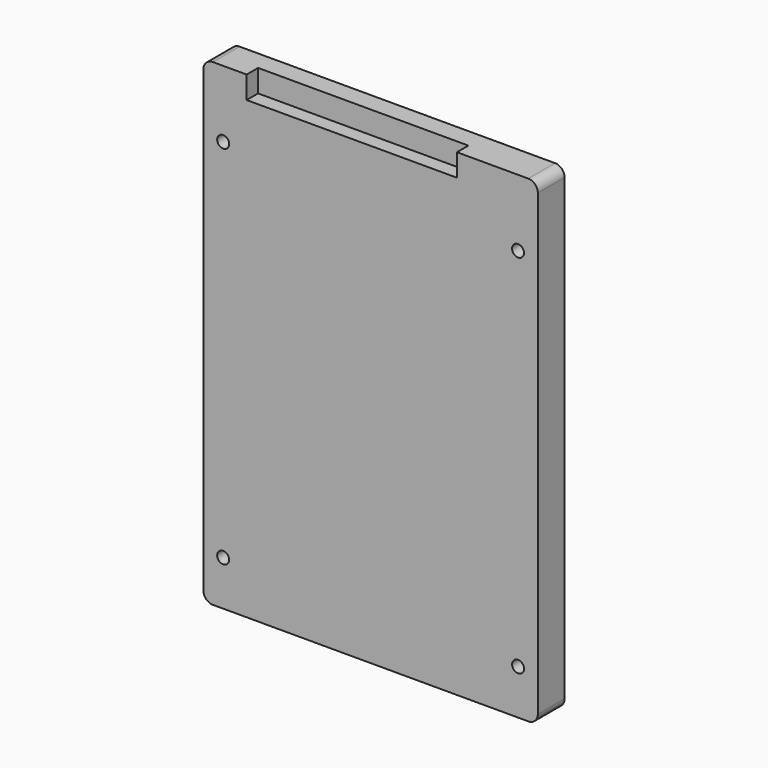
from build123d import *

# Parameters (mm, degrees)
F0_W     = 70
F0_H     = 100
F1_DEPTH = 7
F2_R     = 2
F3_R     = 1.25
F3_W     = 44.0106242895
F3_H     = 4.7012990341
F4_DEPTH = 3


with BuildPart() as f1:
    # F0 (on Front) → F1 (new body)
    with BuildSketch(Plane.XZ):
        with Locations((43.885584152, 59.9958246574)):
            Rectangle(F0_W, F0_H)
    extrude(amount=F1_DEPTH)

    # F2
    f2_edges = [f1.edges().sort_by_distance(p)[0] for p in [
        (8.885584, -3.5, 109.995825),
        (8.885584, -3.5, 9.995825),
        (78.885584, -3.5, 9.995825),
        (78.885584, -3.5, 109.995825),
    ]]
    fillet(f2_edges, radius=F2_R)

    # F3 (on face) → F4 (cut)
    with BuildSketch(Plane.XZ.offset(7)):
        with Locations((13.025584152, 95.9958246574)):
            Circle(F3_R)
        with Locations((74.745584152, 95.9958246574)):
            Circle(F3_R)
        with Locations((13.025584152, 19.3958246574)):
            Circle(F3_R)
        with Locations((74.745584152, 19.3958246574)):
            Circle(F3_R)
        with Locations((39.9450175464, 107.6451751404)):
            Rectangle(F3_W, F3_H)
    extrude(amount=-F4_DEPTH, mode=Mode.SUBTRACT)


solid = f1.part
